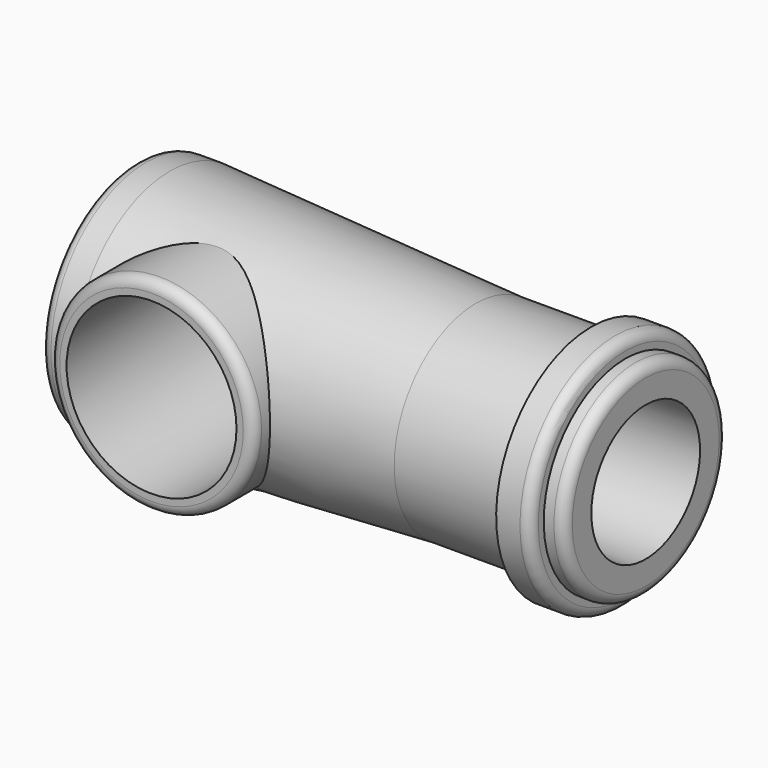
from build123d import *

# Parameters (mm, degrees)
F2_R     = 15
F3_DEPTH = 19
F4_R     = 12.5
F5_DEPTH = 25
F6_R     = 1.5
F7_R     = 1.5


with BuildPart() as f1:
    # F0 (on Front) → F1 (revolve)
    with BuildSketch(Plane.XZ):
        Polygon((0, 17.5), (0, 0), (60, 0), (60, 10), (75, 10), (75, 15), (72, 15), (72, 17.5), (67, 17.5), (67, 15), (50, 15), (5, 17.5), align=None)
    revolve(axis=Axis((30, 0, 0), (1, 0, 0)))

    # F2 (on Front) → F3 (join)
    with BuildSketch(Plane.XZ):
        with Locations((17.5, 0)):
            Circle(F2_R)
    extrude(amount=F3_DEPTH)

    # F4 (on face) → F5 (cut)
    with BuildSketch(Plane.XZ.offset(19)):
        with Locations((17.5, 0)):
            Circle(F4_R)
    extrude(amount=-F5_DEPTH, mode=Mode.SUBTRACT)

    # F6
    f6_edges = [f1.edges().sort_by_distance(p)[0] for p in [
        (72, 0, -17.5),
        (75, 0, -15),
        (0, 0, -17.5),
    ]]
    fillet(f6_edges, radius=F6_R)

    # F7
    f7_edges = [f1.edges().sort_by_distance(p)[0] for p in [
        (2.5, -19, 0),
    ]]
    fillet(f7_edges, radius=F7_R)


solid = f1.part
